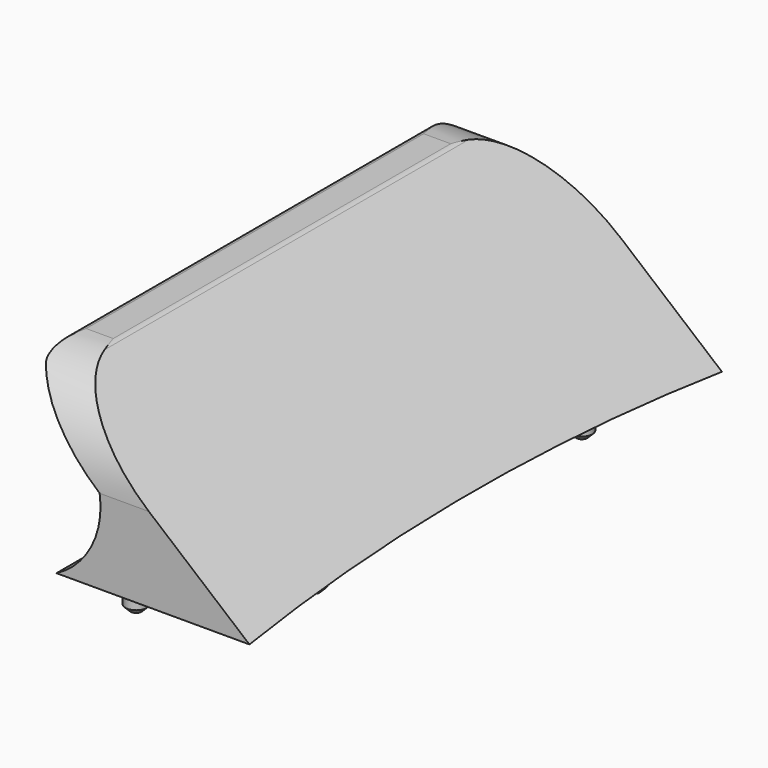
from build123d import *

# Parameters (mm, degrees)
F1_DEPTH  = 22.225
F3_DEPTH  = 14.199989
F4_R      = 311.546875
F5_DEPTH  = 38.1
F7_DEPTH  = 2.38125
F9_R      = 0.79375
F10_DEPTH = 1.27
F11_SIZE  = 0.381


with BuildPart() as f1:
    # F0 (on Front) → F1 (new body, symmetric)
    with BuildSketch(Plane.XZ):
        with BuildLine():
            Line((0, 0), (3.704567, 0))
            Line((3.704567, 0), (-11.281316, 12.574649))
            ThreePointArc((-11.281316, 12.574649), (-11.442464, 12.667688), (-11.625715, 12.7))
            Line((-11.625715, 12.7), (-13.663198, 12.7))
            ThreePointArc((-13.663198, 12.7), (-14.166677, 12.347461), (-14.007598, 11.75377))
            Line((-14.007598, 11.75377), (0, 0))
        make_face()
    extrude(amount=F1_DEPTH, both=True)

    # F2 (on Right) → F3 (cut, through all)
    with BuildSketch(Plane.YZ):
        with BuildLine():
            ThreePointArc((-22.225, 6.35), (-20.365128, 10.840128), (-15.875, 12.7))
            Line((-15.875, 12.7), (-25.184002, 17.701721))
            Line((-25.184002, 17.701721), (-26.87986, 8.657143))
            Line((-26.87986, 8.657143), (-22.225, 6.35))
        make_face()
        with BuildLine():
            Line((22.225, 6.35), (26.87986, 8.657143))
            Line((26.87986, 8.657143), (25.184002, 17.701721))
            Line((25.184002, 17.701721), (15.875, 12.7))
            ThreePointArc((15.875, 12.7), (20.365128, 10.840128), (22.225, 6.35))
        make_face()
    extrude(amount=-F3_DEPTH, mode=Mode.SUBTRACT)

    # F4 (on Right) → F5 (cut, symmetric)
    with BuildSketch(Plane.YZ):
        with Locations((0, -310.753125)):
            Circle(F4_R)
    extrude(amount=F5_DEPTH, both=True, mode=Mode.SUBTRACT)

    # F6 (on face) → F7 (join)
    with BuildSketch(Plane.XZ.offset(22.225)):
        with BuildLine():
            Line((-10.819531, 0), (0, 0))
            Line((0, 0), (-7.567635, 6.35))
            ThreePointArc((-7.567635, 6.35), (-8.1783, 2.655064), (-10.819531, 0))
        make_face()
    extrude(amount=-F7_DEPTH)



with BuildPart() as f8_1:
    # F8: instance of F1
    add(f1.part.mirror(Plane.XZ))


with BuildPart() as f1_1:
    add(f1.part)

    add(f8_1.part)  # F10 merges F8_1
    # F9 (on face) → F10 (join, symmetric)
    with BuildSketch(Plane(origin=(0, 0, 0), x_dir=(1, 0, 0), z_dir=(0, 0, -1))):
        with Locations((-5.779071, 21.034375)):
            Circle(F9_R)
        with Locations((0.871276, 12.592022)):
            Circle(F9_R)
        with Locations((0.871276, -12.592022)):
            Circle(F9_R)
        with Locations((-5.779071, -21.034375)):
            Circle(F9_R)
    extrude(amount=F10_DEPTH, both=True)

    # F11
    f11_edges = [f1_1.edges().sort_by_distance(p)[0] for p in [
        (0.077526, -12.592022, -1.27),
        (-6.572821, -21.034375, -1.27),
        (0.077526, 12.592022, -1.27),
        (-6.572821, 21.034375, -1.27),
    ]]
    chamfer(f11_edges, length=F11_SIZE)


solid = f1_1.part
